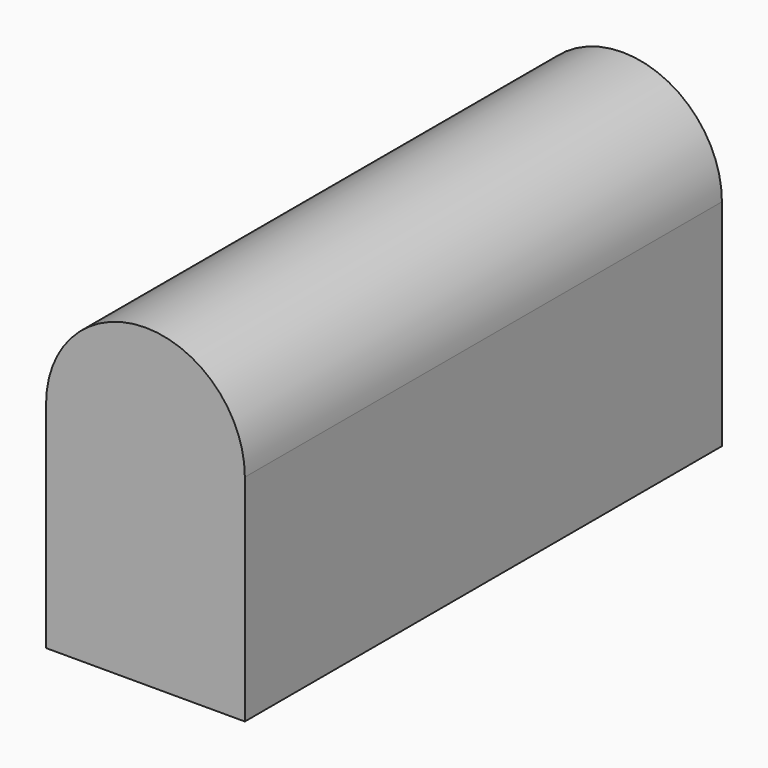
from build123d import *

# Parameters (mm, degrees)
F0_R     = 9.525
F1_DEPTH = 76.2
F2_R     = 1.651
F3_DEPTH = 12.7


with BuildPart() as f1:
    # F0 (on Front) → F1 (new body)
    with BuildSketch(Plane.XZ):
        with BuildLine():
            Line((-16.7763393044, 27.4915862828), (-16.7763393044, 9.313e-07))
            Line((-16.7763393044, 9.313e-07), (8.6236606956, 9.313e-07))
            Line((8.6236606956, 9.313e-07), (8.6236606956, 27.4915862828))
            ThreePointArc((8.6236606956, 27.4915862828), (-4.0763393044, 40.1915862828), (-16.7763393044, 27.4915862828))
        make_face()
        with Locations((-4.0763393044, 27.4915862828)):
            Circle(F0_R, mode=Mode.SUBTRACT)
        with Locations((-4.0763393044, 27.4915862828)):
            Circle(F0_R)
    extrude(amount=F1_DEPTH)

    # F2 (on face) → F3 (cut)
    with BuildSketch(Plane(origin=(0, 0, 9.313e-07), x_dir=(1, 0, 0), z_dir=(0, 0, -1))):
        with Locations((-10.4263393044, 6.35)):
            Circle(F2_R)
        with Locations((-10.4263393044, 69.85)):
            Circle(F2_R)
        with Locations((2.2736606956, 6.35)):
            Circle(F2_R)
        with Locations((2.2736606956, 69.85)):
            Circle(F2_R)
    extrude(amount=-F3_DEPTH, mode=Mode.SUBTRACT)


solid = f1.part
